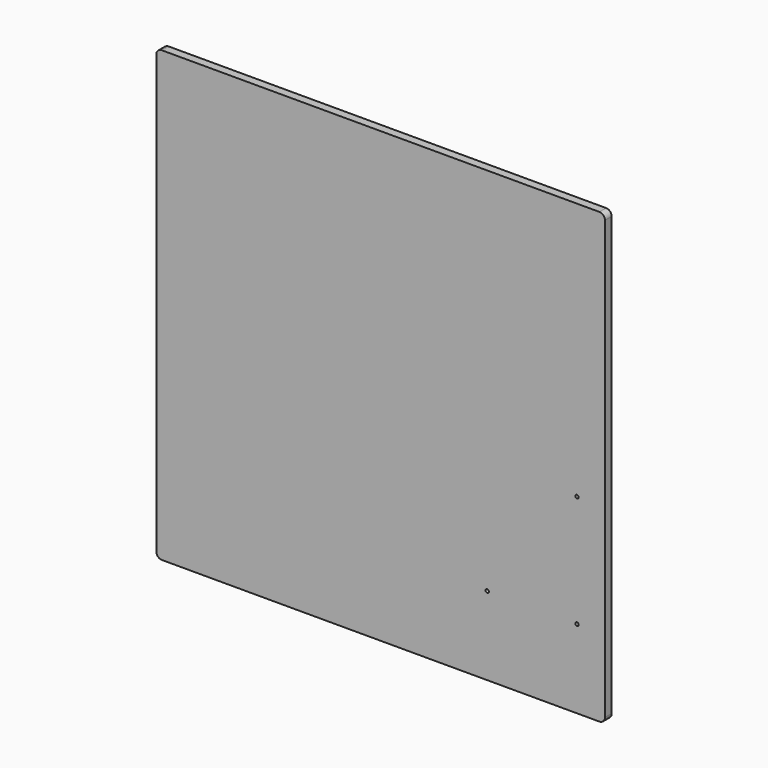
from build123d import *

# Parameters (mm, degrees)
F0_R     = 3
F1_DEPTH = 15


with BuildPart() as f1:
    # F0 (on Front) → F1 (new body)
    with BuildSketch(Plane.XZ):
        with BuildLine():
            ThreePointArc((400, 390), (397.071068, 397.071068), (390, 400))
            Line((390, 400), (-390, 400))
            ThreePointArc((-390, 400), (-397.071068, 397.071068), (-400, 390))
            Line((-400, 390), (-400, -390))
            ThreePointArc((-400, -390), (-397.071068, -397.071068), (-390, -400))
            Line((-390, -400), (390, -400))
            ThreePointArc((390, -400), (397.071068, -397.071068), (400, -390))
            Line((400, -390), (400, 390))
        make_face()
        with Locations((190, -260)):
            Circle(F0_R, mode=Mode.SUBTRACT)
        with Locations((350, -260)):
            Circle(F0_R, mode=Mode.SUBTRACT)
        with Locations((350, -60)):
            Circle(F0_R, mode=Mode.SUBTRACT)
    extrude(amount=F1_DEPTH)


solid = f1.part
